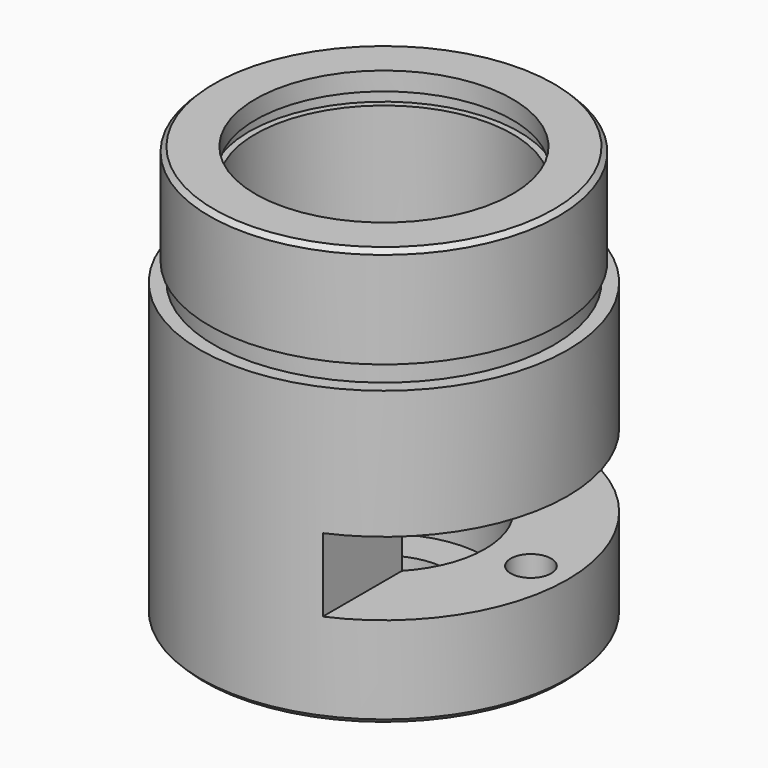
from build123d import *

# Parameters (mm, degrees)
F0_R      = 20
F1_DEPTH  = 32
F2_R      = 18.5
F3_DEPTH  = 2
F4_R      = 19
F5_DEPTH  = 11
F6_R      = 14
F7_DEPTH  = 2
F8_R      = 14.7
F9_DEPTH  = 1.35
F10_R     = 14
F11_DEPTH = 21.5
F12_R     = 11
F13_DEPTH = 18
F14_R     = 7
F15_DEPTH = 25
F17_D     = 4.4
F17_DEPTH = 15
F17_TIP   = 1.3218933619
F19_START = -10
F18_W     = 20
F18_H     = 43.6686427468
F19_DEPTH = 8
F20_SIZE  = 0.5


with BuildPart() as f1:
    # F0 (on Top) → F1 (new body)
    with BuildSketch(Plane.XY):
        Circle(F0_R)
    extrude(amount=F1_DEPTH)

    # F2 (on face) → F3 (join)
    with BuildSketch(Plane.XY.offset(32)):
        Circle(F2_R)
    extrude(amount=F3_DEPTH)

    # F4 (on face) → F5 (join)
    with BuildSketch(Plane.XY.offset(34)):
        Circle(F4_R)
    extrude(amount=F5_DEPTH)

    # F6 (on face) → F7 (cut)
    with BuildSketch(Plane.XY.offset(45)):
        Circle(F6_R)
    extrude(amount=-F7_DEPTH, mode=Mode.SUBTRACT)

    # F8 (on face) → F9 (cut)
    with BuildSketch(Plane.XY.offset(43)):
        Circle(F8_R)
    extrude(amount=-F9_DEPTH, mode=Mode.SUBTRACT)

    # F10 (on face) → F11 (cut)
    with BuildSketch(Plane.XY.offset(41.65)):
        Circle(F10_R)
    extrude(amount=-F11_DEPTH, mode=Mode.SUBTRACT)

    # F12 (on face) → F13 (cut)
    with BuildSketch(Plane.XY.offset(20.15)):
        Circle(F12_R)
    extrude(amount=-F13_DEPTH, mode=Mode.SUBTRACT)

    # F14 (on face) → F15 (cut)
    with BuildSketch(Plane.XY.offset(2.15)):
        Circle(F14_R)
    extrude(amount=-F15_DEPTH, mode=Mode.SUBTRACT)

    # F17
    with Locations(Plane(origin=(0, 0, 0), x_dir=(1, 0, 0), z_dir=(0, 0, -1))):
        with Locations((-16, 0), (0, 16), (16, 0), (0, -16)):
            Hole(F17_D / 2, depth=F17_DEPTH)
            with Locations((0, 0, -(F17_DEPTH + F17_TIP / 2))):  # 118° drill point
                Cone(0, F17_D / 2, F17_TIP, mode=Mode.SUBTRACT)

    # F18 (on face) → F19 (cut)
    with BuildSketch(Plane(origin=(0, 0, 0), x_dir=(1, 0, 0), z_dir=(0, 0, -1)).offset(F19_START)):
        with Locations((18, -0.2762433141)):
            Rectangle(F18_W, F18_H)
    extrude(amount=-F19_DEPTH, mode=Mode.SUBTRACT)

    # F20
    f20_edges = [f1.edges().sort_by_distance(p)[0] for p in [
        (-20, 0, 0),
        (-19, 0, 45),
    ]]
    chamfer(f20_edges, length=F20_SIZE)


solid = f1.part
